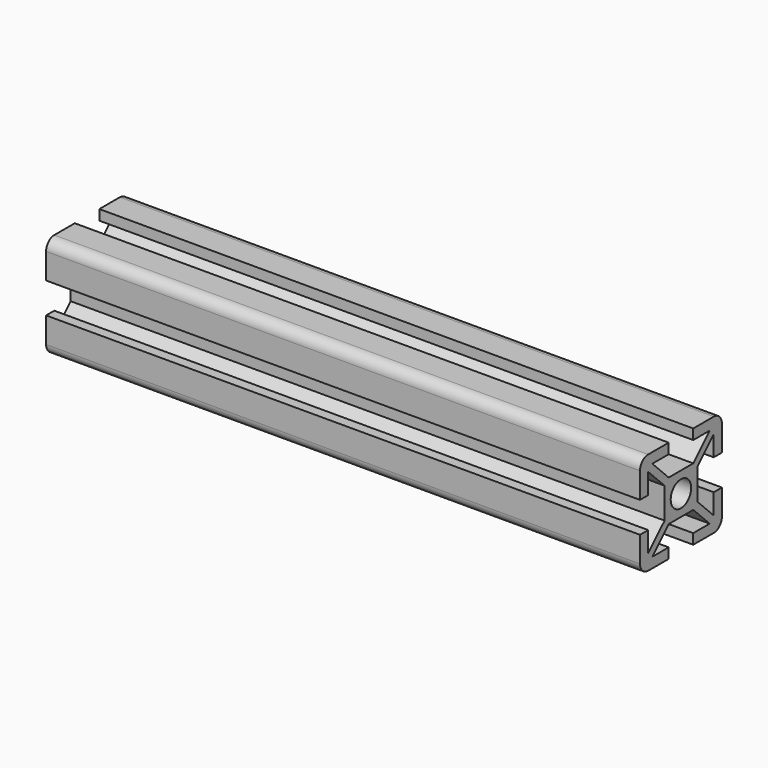
from build123d import *

# Parameters (mm, degrees)
SKETCH_R  = 2.5
PAD_DEPTH = 116


with BuildPart() as part:
    # Sketch → Pad (new body)
    with BuildSketch(Plane.YZ):
        with BuildLine():
            ThreePointArc((-8, 10), (-9.414214, 9.414214), (-10, 8))
            Line((-10, 8), (-10, 3))
            Line((-8, 3), (-10, 3))
            Line((-8, 3), (-8, 7))
            Line((-4, 3), (-8, 7))
            Line((-4, -3), (-4, 3))
            Line((-8, -7), (-4, -3))
            Line((-8, -7), (-8, -3))
            Line((-10, -3), (-8, -3))
            Line((-10, -3), (-10, -8))
            ThreePointArc((-10, -8), (-9.414214, -9.414214), (-8, -10))
            Line((-8, -10), (-3, -10))
            Line((-3, -10), (-3, -8))
            Line((-3, -8), (-7, -8))
            Line((-3, -4), (-7, -8))
            Line((3, -4), (-3, -4))
            Line((3, -4), (7, -8))
            Line((3, -8), (7, -8))
            Line((3, -10), (3, -8))
            Line((3, -10), (8, -10))
            ThreePointArc((8, -10), (9.414214, -9.414214), (10, -8))
            Line((10, -8), (10, -3))
            Line((10, -3), (8, -3))
            Line((8, -7), (8, -3))
            Line((4, -3), (8, -7))
            Line((4, 3), (4, -3))
            Line((4, 3), (8, 7))
            Line((8, 7), (8, 3))
            Line((8, 3), (10, 3))
            Line((10, 3), (10, 8))
            ThreePointArc((10, 8), (9.414214, 9.414214), (8, 10))
            Line((3, 10), (8, 10))
            Line((3, 10), (3, 8))
            Line((3, 8), (7, 8))
            Line((7, 8), (3, 4))
            Line((-3, 4), (3, 4))
            Line((-3, 4), (-7, 8))
            Line((-7, 8), (-3, 8))
            Line((-3, 8), (-3, 10))
            Line((-8, 10), (-3, 10))
        make_face()
        Circle(SKETCH_R, mode=Mode.SUBTRACT)
    extrude(amount=PAD_DEPTH)


solid = part.part
